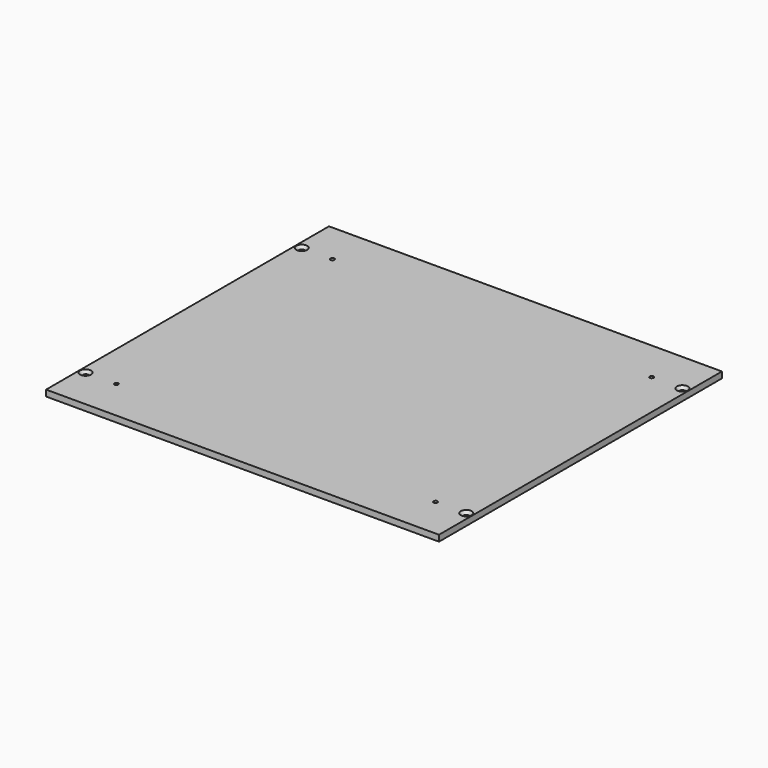
from build123d import *

# Parameters (mm, degrees)
F0_W           = 320
F0_H           = 288
F1_DEPTH       = 2.5
F3_D           = 4.4
F3_DEPTH       = 17.25
F3_CSINK_D     = 8.96
F3_CSINK_ANGLE = 90
F3_TIP         = 1.3218933619
F5_D           = 3.2


with BuildPart() as f1:
    # F0 (on Top) → F1 (new body, symmetric)
    with BuildSketch(Plane.XY):
        Rectangle(F0_W, F0_H)
    extrude(amount=F1_DEPTH, both=True)

    # F3
    with Locations(Plane.XY.offset(2.5)):
        with Locations((-155, -110), (155, -110), (155, 110), (-155, 110)):
            CounterSinkHole(F3_D / 2, F3_CSINK_D / 2, depth=F3_DEPTH, counter_sink_angle=F3_CSINK_ANGLE)
            with Locations((0, 0, -(F3_DEPTH + F3_TIP / 2))):  # 118° drill point
                Cone(0, F3_D / 2, F3_TIP, mode=Mode.SUBTRACT)

    # F5 (through all)
    with Locations(Plane.XY.offset(2.5)):
        with Locations((-130, -110), (-130, 110), (130, 110), (130, -110)):
            Hole(F5_D / 2)


solid = f1.part
